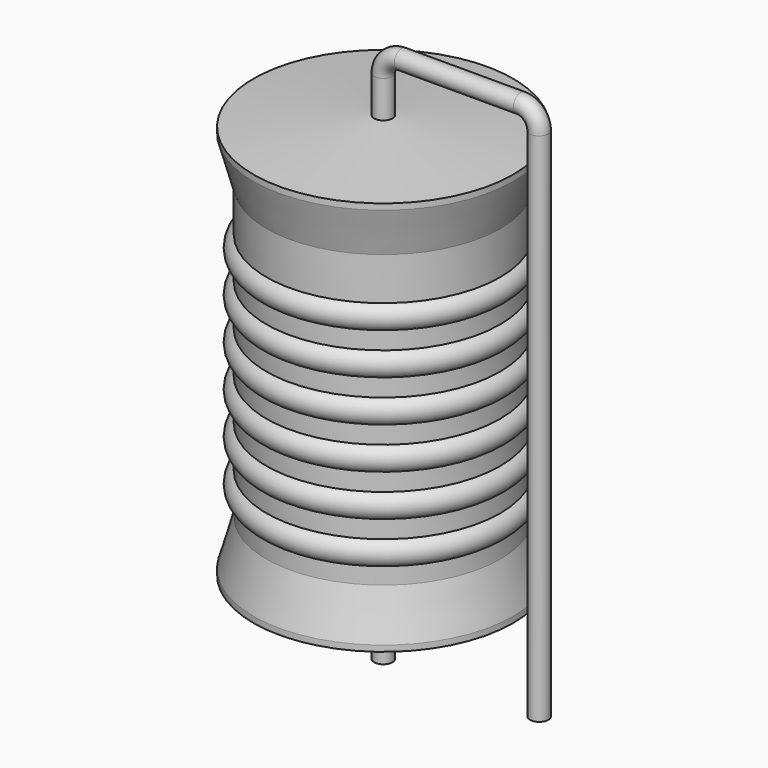
from build123d import *

# Parameters (mm, degrees)
SKETCH_R = 0.45


with BuildPart() as revolution:
    # Sketch002 → Revolution (revolve)
    with BuildSketch(Plane.XZ):
        Polygon((0, 0.1), (0, 20.42), (0.3375, 20.42), (6.35, 19.912), (6.35, 19.6195), (5.715, 17.372), (5.715, 3.148), (6.35, 0.9005), (6.35, 0.608), (0.3375, 0.1), align=None)
    revolve(axis=Axis((0, 0, 0), (0, 0, 1)))


with BuildPart() as sweep_body:
    # Sweep: sweep along a path in Sketch001
    with BuildLine(Plane.XZ) as sweep_path:
        Line((0, -3), (0, 22.22))
        ThreePointArc((0, 22.22), (0.263601, 22.856393), (0.899992, 23.12))
        Line((0.899992, 23.12), (6.72, 23.12))
        ThreePointArc((6.72, 23.12), (7.356396, 22.856396), (7.62, 22.22))
        Line((7.62, 22.22), (7.62, -3))
    # Sketch → Sweep (sweep)
    with BuildSketch(Plane.XY.offset(-2)):
        Circle(SKETCH_R)
    sweep(path=sweep_path.line)


with BuildPart() as obj1:
    # Sketch003 → Revolution001 (revolve)
    with BuildSketch(Plane.XZ):
        with BuildLine():
            Line((5.08, 16.102), (5.08, 3.148))
            Line((5.08, 3.148), (5.461, 3.148))
            Line((5.461, 3.148), (5.461, 3.91))
            ThreePointArc((5.461, 3.91), (6.096, 4.545), (5.461, 5.18))
            Line((5.461, 5.18), (5.461, 5.942))
            ThreePointArc((5.461, 5.942), (6.096, 6.577), (5.461, 7.212))
            Line((5.461, 7.212), (5.461, 7.974))
            ThreePointArc((5.461, 7.974), (6.096, 8.609), (5.461, 9.244))
            Line((5.461, 9.244), (5.461, 10.006))
            ThreePointArc((5.461, 10.006), (6.096, 10.641), (5.461, 11.276))
            Line((5.461, 11.276), (5.461, 12.038))
            ThreePointArc((5.461, 12.038), (6.096, 12.673), (5.461, 13.308))
            Line((5.461, 13.308), (5.461, 14.07))
            ThreePointArc((5.461, 14.07), (6.096, 14.705), (5.461, 15.34))
            Line((5.461, 16.102), (5.461, 15.34))
            Line((5.08, 16.102), (5.461, 16.102))
        make_face()
    revolve(axis=Axis((0, 0, 0), (0, 0, 1)))

    # obj1: union Revolution, Sweep body
    add(revolution.part)
    add(sweep_body.part)


solid = obj1.part
